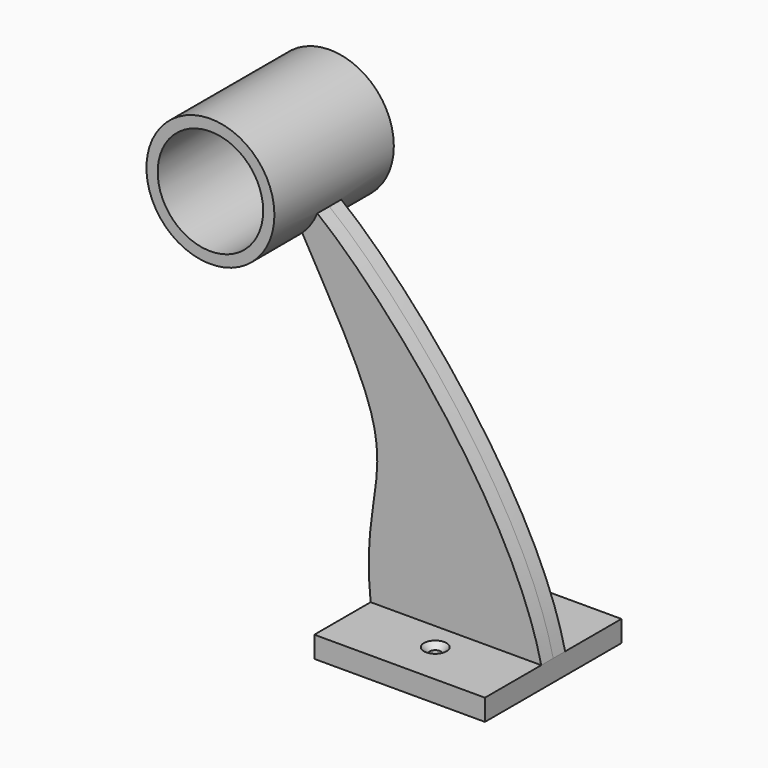
from build123d import *

# Parameters (mm, degrees)
F0_W           = 50.8
F0_H           = 6.35
F1_DEPTH       = 25.4
F2_DEPTH       = 4.445
F3_R           = 19.05
F4_DEPTH       = 22.225
F5_R           = 15.7047598919
F6_DEPTH       = 44.45
F8_D           = 3.4
F8_CSINK_D     = 6.72
F8_CSINK_ANGLE = 90
F9_D           = 3.4
F9_CSINK_D     = 6.72
F9_CSINK_ANGLE = 90


with BuildPart() as f1:
    # F0 (on Front) → F1 (new body, symmetric)
    with BuildSketch(Plane.XZ):
        with Locations((40.4247476995, -36.9068052319)):
            Rectangle(F0_W, F0_H)
    extrude(amount=F1_DEPTH, both=True)

    # F0 (on Front) → F2 (join, symmetric)
    with BuildSketch(Plane.XZ):
        with Locations((40.4247476995, -36.9068052319)):
            Rectangle(F0_W, F0_H)
        with BuildLine():
            Line((15.0247476995, -33.7318052319), (65.8247476995, -33.7318052319))
            add(Edge.make_bspline(
                [(15.0247476995, -33.7318052319), (12.2795119362, -9.1876940642), (29.4644343196, 7.3717802798), (-44.7611190361, 108.9306998857), (54.9041464645, 15.0382978493), (65.8247476995, -33.7318052319)],
                knots=[0, 0, 0, 0, 0.2744626476, 0.5653253519, 1, 1, 1, 1], degree=3))
        make_face()
    extrude(amount=F2_DEPTH, both=True)

    # F3 (on Front) → F4 (join, symmetric)
    with BuildSketch(Plane.XZ):
        with Locations((-18.4505134821, 70.2780410647)):
            Circle(F3_R)
    extrude(amount=F4_DEPTH, both=True)

    # F5 (on face) → F6 (cut)
    with BuildSketch(Plane.XZ.offset(22.225)):
        with Locations((-18.4505134821, 70.2780410647)):
            Circle(F5_R)
    extrude(amount=-F6_DEPTH, mode=Mode.SUBTRACT)

    # F8 (through all)
    with Locations(Plane.XY.offset(-33.7318052319)):
        with Locations((40.906753391, 14.9225)):
            CounterSinkHole(F8_D / 2, F8_CSINK_D / 2, counter_sink_angle=F8_CSINK_ANGLE)

    # F9 (through all)
    with Locations(Plane.XY.offset(-33.7318052319)):
        with Locations((40.906753391, -12.7611579373)):
            CounterSinkHole(F9_D / 2, F9_CSINK_D / 2, counter_sink_angle=F9_CSINK_ANGLE)


solid = f1.part
